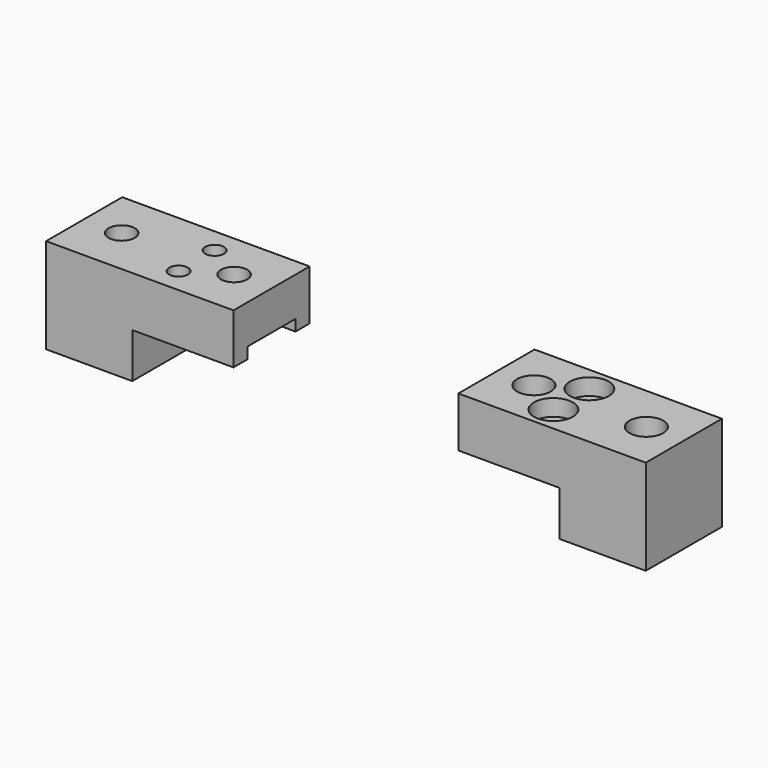
from build123d import *

# Parameters (mm, degrees)
CYLINDER_R        = 2.6
CYLINDER_DEPTH    = 2.5
CYLINDER001_R     = 2.6
CYLINDER001_DEPTH = 2.5
BOX002_W          = 40
BOX002_H          = 8
BOX002_DEPTH      = 1.5
BOX001_W          = 30
BOX001_H          = 15
BOX001_DEPTH      = 15
BOX_W             = 57
BOX_H             = 13
BOX_DEPTH         = 6
SKETCH_W          = 80
SKETCH_H          = 12.7
SKETCH_R          = 2.25
SKETCH_R_2        = 1.75
SKETCH_R_3        = 1.25
SKETCH_R_4        = 1.5
EXTRUDE_DEPTH     = 12.7


with BuildPart() as cylinder:
    # Cylinder → Cylinder (new body)
    with BuildSketch(Plane(origin=(25, 3, 10.5), x_dir=(1, 0, 0), z_dir=(0, 0, 1))):
        Circle(CYLINDER_R)
    extrude(amount=CYLINDER_DEPTH)


with BuildPart() as cylinder001:
    # Cylinder001 → Cylinder001 (new body)
    with BuildSketch(Plane(origin=(25, -3, 10.5), x_dir=(1, 0, 0), z_dir=(0, 0, 1))):
        Circle(CYLINDER001_R)
    extrude(amount=CYLINDER001_DEPTH)


with BuildPart() as cube002:
    # Box002 → Box002 (new body)
    with BuildSketch(Plane(origin=(-20, -4, 6), x_dir=(1, 0, 0), z_dir=(0, 0, 1))):
        with Locations((20, 4)):
            Rectangle(BOX002_W, BOX002_H)
    extrude(amount=BOX002_DEPTH)


with BuildPart() as cube001:
    # Box001 → Box001 (new body)
    with BuildSketch(Plane(origin=(-15, -7, 0), x_dir=(1, 0, 0), z_dir=(0, 0, 1))):
        with Locations((15, 7.5)):
            Rectangle(BOX001_W, BOX001_H)
    extrude(amount=BOX001_DEPTH)


with BuildPart() as cube:
    # Box → Box (new body)
    with BuildSketch(Plane(origin=(-28.5, -6.5, 0), x_dir=(1, 0, 0), z_dir=(0, 0, 1))):
        with Locations((28.5, 6.5)):
            Rectangle(BOX_W, BOX_H)
    extrude(amount=BOX_DEPTH)


with BuildPart() as cut004:
    # Sketch → Extrude (new body)
    with BuildSketch(Plane.XY):
        Rectangle(SKETCH_W, SKETCH_H)
        with Locations((35, 0)):
            Circle(SKETCH_R, mode=Mode.SUBTRACT)
        with Locations((20, 0)):
            Circle(SKETCH_R, mode=Mode.SUBTRACT)
        with Locations((-35, 0)):
            Circle(SKETCH_R_2, mode=Mode.SUBTRACT)
        with Locations((-20, 0)):
            Circle(SKETCH_R_2, mode=Mode.SUBTRACT)
        with Locations((-25, 3)):
            Circle(SKETCH_R_3, mode=Mode.SUBTRACT)
        with Locations((-25, -3)):
            Circle(SKETCH_R_3, mode=Mode.SUBTRACT)
        with Locations((25, 3.129069)):
            Circle(SKETCH_R_4, mode=Mode.SUBTRACT)
        with Locations((25, -3.129069)):
            Circle(SKETCH_R_4, mode=Mode.SUBTRACT)
    extrude(amount=EXTRUDE_DEPTH)

    # Cut: cut Cube
    add(cube.part, mode=Mode.SUBTRACT)

    # Cut001: cut Cube001
    add(cube001.part, mode=Mode.SUBTRACT)

    # Cut002: cut Cube002
    add(cube002.part, mode=Mode.SUBTRACT)

    # Cut003: cut Cylinder001
    add(cylinder001.part, mode=Mode.SUBTRACT)

    # Cut004: cut Cylinder
    add(cylinder.part, mode=Mode.SUBTRACT)


solid = cut004.part
